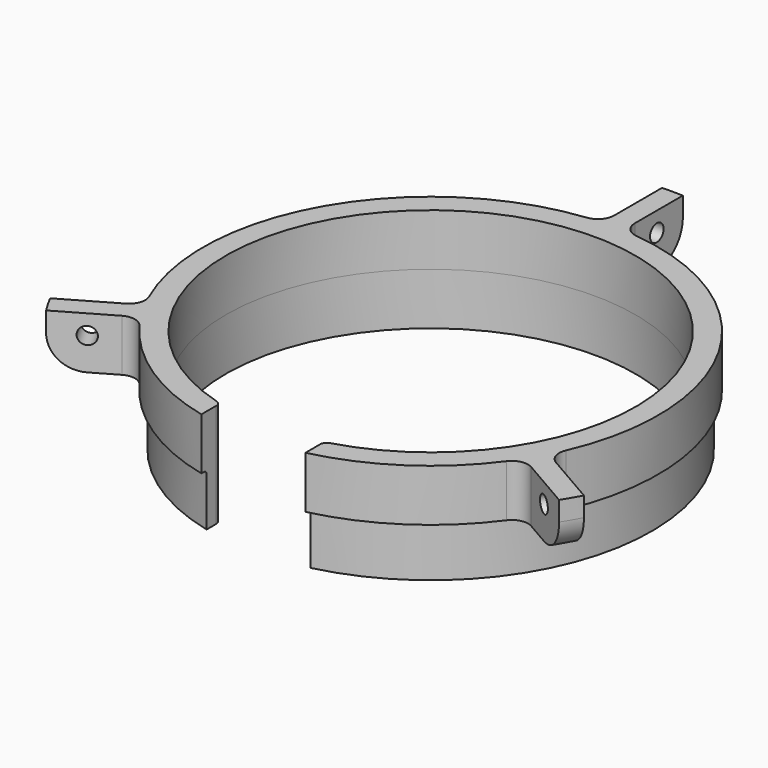
from build123d import *

# Parameters (mm, degrees)
SKETCH_R              = 93
SKETCH_R_2            = 63
PAD_DEPTH             = 16
POCKET_DEPTH          = 543.060769
POLARPATTERN_COUNT    = 3
SKETCH002_W           = 32
SKETCH002_H           = 146
POCKET001_DEPTH       = 16.001
SKETCH003_R           = 2.6
POCKET002_DEPTH       = 546.51444
POLARPATTERN001_COUNT = 3
PAD001_DEPTH          = 16
FILLET_R              = 1
FILLET001_R           = 2
FILLET002_R           = 10
FILLET003_R           = 5


with BuildPart() as part:
    # Sketch → Pad (new body)
    with BuildSketch(Plane.XY):
        Circle(SKETCH_R)
        Circle(SKETCH_R_2, mode=Mode.SUBTRACT)
    extrude(amount=PAD_DEPTH)

    # Sketch001 (on Face4 of Pad) → Pocket (cut, through all)
    with BuildSketch(Plane.XY.offset(16)):
        with BuildLine():
            ThreePointArc((62.158402, -32.192128), (60.621778, 35), (3.2, 69.926819))
            Line((3.2, 205.926819), (3.2, 69.926819))
            ThreePointArc((179.937856, -100.192128), (178.359387, 102.97584), (3.2, 205.926819))
            Line((62.158402, -32.192128), (179.937856, -100.192128))
        make_face()
    pocket = extrude(amount=-POCKET_DEPTH, mode=Mode.SUBTRACT)

    # PolarPattern: Pocket ×3 about axis
    polarpattern_axis = Axis((0, 0, 16), (0, 0, 1))
    for i in range(1, POLARPATTERN_COUNT):
        add(pocket.rotate(polarpattern_axis, i * 360 / POLARPATTERN_COUNT), mode=Mode.SUBTRACT)

    # Sketch002 (on Face4 of PolarPattern) → Pocket001 (cut, through all)
    with BuildSketch(Plane.XY.offset(16)):
        with Locations((0, -73)):
            Rectangle(SKETCH002_W, SKETCH002_H)
    extrude(amount=-POCKET001_DEPTH, mode=Mode.SUBTRACT)

    # Sketch003 (on Face5 of Pocket001) → Pocket002 (cut, through all)
    with BuildSketch(Plane.YZ.offset(3.2)):
        with Locations((82.94493, 10)):
            Circle(SKETCH003_R)
    pocket002 = extrude(amount=-POCKET002_DEPTH, mode=Mode.SUBTRACT)

    # PolarPattern001: Pocket002 ×3 about axis
    polarpattern001_axis = Axis((0, 0, 0), (0, 0, 1))
    for i in range(1, POLARPATTERN001_COUNT):
        add(pocket002.rotate(polarpattern001_axis, i * 360 / POLARPATTERN001_COUNT), mode=Mode.SUBTRACT)

    # Sketch004 (on Face2 of PolarPattern001) → Pad001 (join)
    with BuildSketch(Plane(origin=(0, 0, 0), x_dir=(1, 0, 0), z_dir=(0, 0, -1))):
        with BuildLine():
            ThreePointArc((-16, 60.934391), (0, -63), (16, 60.934391))
            Line((16, 66.1469), (16, 60.934391))
            ThreePointArc((-16, 66.1469), (0, -68.054481), (16, 66.1469))
            Line((-16, 66.1469), (-16, 60.934391))
        make_face()
    extrude(amount=PAD001_DEPTH)

    # Fillet
    fillet_edges = [part.edges().sort_by_distance(p)[0] for p in [
        (0, 68.054481, 0),
    ]]
    fillet(fillet_edges, radius=FILLET_R)

    # Fillet001
    fillet001_edges = [part.edges().sort_by_distance(p)[0] for p in [
        (-16, -60.934391, -8),
        (-16, -60.934391, 8),
        (16, -60.934391, -8),
        (16, -60.934391, 8),
    ]]
    fillet(fillet001_edges, radius=FILLET001_R)

    # Fillet002
    fillet002_edges = [part.edges().sort_by_distance(p)[0] for p in [
        (-80.540363, -46.5, 0),
        (80.540363, -46.5, 0),
        (0, 93, 0),
    ]]
    fillet(fillet002_edges, radius=FILLET002_R)

    # Fillet003
    fillet003_edges = [part.edges().sort_by_distance(p)[0] for p in [
        (62.158402, -32.192128, 8),
        (58.958402, -37.734691, 8),
        (-58.958402, -37.734691, 8),
        (-62.158402, -32.192128, 8),
        (-3.2, 69.926819, 8),
        (3.2, 69.926819, 8),
    ]]
    fillet(fillet003_edges, radius=FILLET003_R)


solid = part.part
